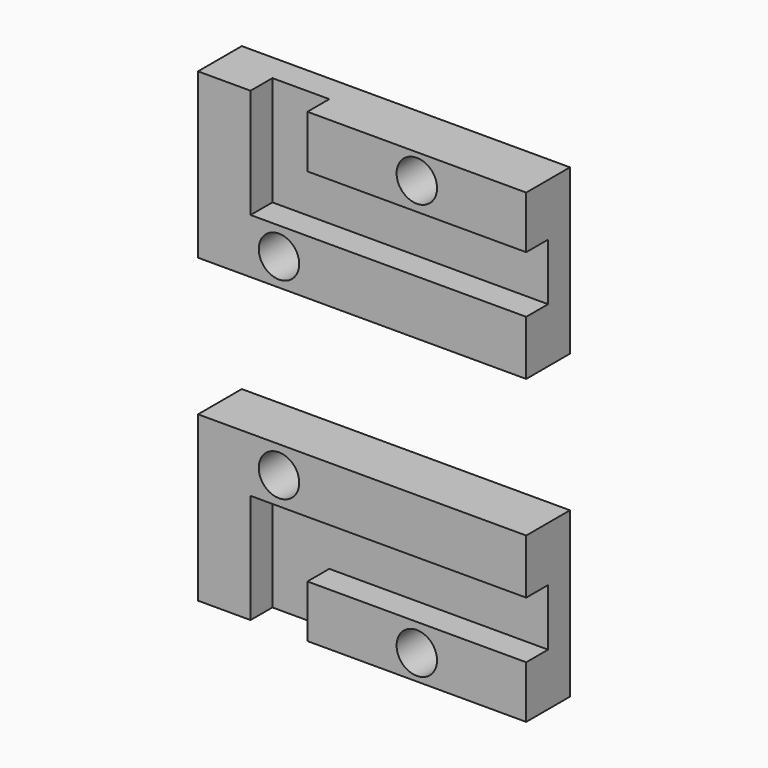
from build123d import *

# Parameters (mm, degrees)
F0_W     = 20
F0_H     = 4.8
F0_R     = 1.85
F1_DEPTH = 2.5
F2_DEPTH = 5


with BuildPart() as f1:
    # F0 (on Front) → F1 (new body)
    with BuildSketch(Plane.XZ):
        with Locations((5, 5.1)):
            Rectangle(F0_W, F0_H)
        with Locations((5, 5.2)):
            Circle(F0_R, mode=Mode.SUBTRACT)
        Polygon((-5, 7.5), (-10.2, 7.5), (-10.2, -2.5), (-5, -2.5), (15, -2.5), (15, 2.7), (-5, 2.7), align=None)
        Polygon((-10.2, 7.5), (-15, 7.5), (-15, -7.5), (15, -7.5), (15, -2.5), (-5, -2.5), (-10.2, -2.5), align=None)
        with Locations((-7.6, -5)):
            Circle(F0_R, mode=Mode.SUBTRACT)
    extrude(amount=F1_DEPTH)

    # F0 (on Front) → F2 (join)
    with BuildSketch(Plane.XZ):
        with Locations((5, 5.1)):
            Rectangle(F0_W, F0_H)
        with Locations((5, 5.2)):
            Circle(F0_R, mode=Mode.SUBTRACT)
        Polygon((-10.2, 7.5), (-15, 7.5), (-15, -7.5), (15, -7.5), (15, -2.5), (-5, -2.5), (-10.2, -2.5), align=None)
        with Locations((-7.6, -5)):
            Circle(F0_R, mode=Mode.SUBTRACT)
    extrude(amount=F2_DEPTH)


with BuildPart() as f1_1:
    # F3: moved
    add(f1.part.moved(Location((0, 0, 13.8))))


with BuildPart() as f4_1:
    # F4: instance of F1
    add(f1_1.part.mirror(Plane.XY))


solid = Compound([f1_1.part, f4_1.part])
